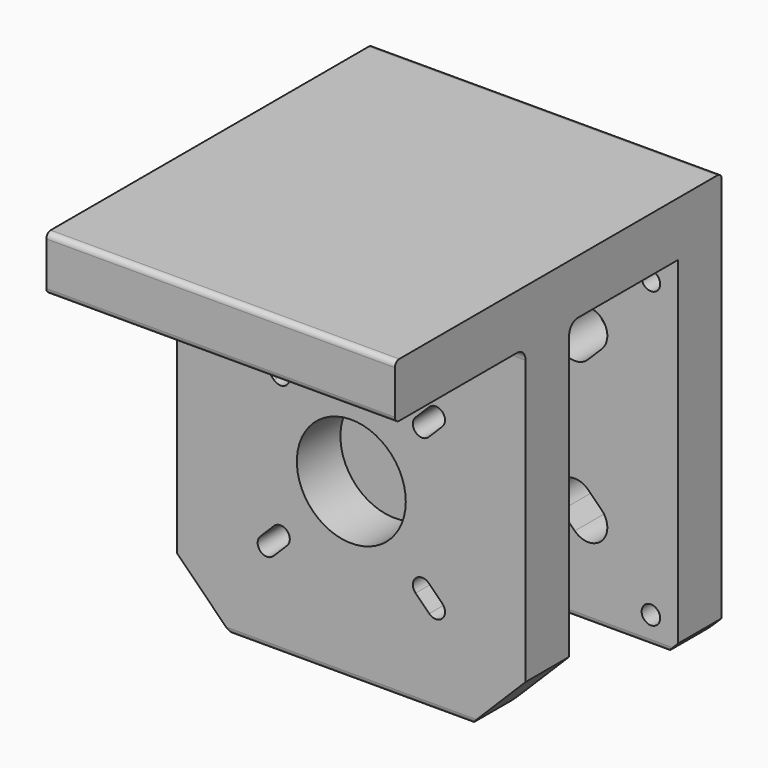
from build123d import *

# Parameters (mm, degrees)
SKETCH_W        = 64
SKETCH_H        = 64
SKETCH_R        = 10
SKETCH_R_2      = 1.7
PAD_DEPTH       = 10
SKETCH001_W     = 64
SKETCH001_H     = 35
PAD001_DEPTH    = 10
SKETCH002_W     = 64
SKETCH002_H     = 74
SKETCH002_R     = 10
PAD002_DEPTH    = 10
SKETCH003_W     = 64
SKETCH003_H     = 10
PAD003_DEPTH    = 30
CHAMFER_SIZE    = 2
CHAMFER001_SIZE = 10
FILLET_R        = 2
FILLET001_R     = 1


with BuildPart() as part:
    # Sketch → Pad (new body)
    with BuildSketch(Plane.XZ):
        Rectangle(SKETCH_W, SKETCH_H)
        Circle(SKETCH_R, mode=Mode.SUBTRACT)
        with Locations((27, 27)):
            Circle(SKETCH_R_2, mode=Mode.SUBTRACT)
        with Locations((-27, -27)):
            Circle(SKETCH_R_2, mode=Mode.SUBTRACT)
        with Locations((-27, 27)):
            Circle(SKETCH_R_2, mode=Mode.SUBTRACT)
        with Locations((27, -27)):
            Circle(SKETCH_R_2, mode=Mode.SUBTRACT)
        with BuildLine():
            ThreePointArc((10.525126, 15.474874), (10.525126, 10.525126), (15.474874, 10.525126))
            Line((17.974874, 13.025126), (15.474874, 10.525126))
            ThreePointArc((17.974874, 13.025126), (17.974874, 17.974874), (13.025126, 17.974874))
            Line((13.025126, 17.974874), (10.525126, 15.474874))
        make_face(mode=Mode.SUBTRACT)
        with BuildLine():
            ThreePointArc((-13.025126, 17.974874), (-17.974874, 17.974874), (-17.974874, 13.025126))
            Line((-15.474874, 10.525126), (-17.974874, 13.025126))
            ThreePointArc((-15.474874, 10.525126), (-10.525126, 10.525126), (-10.525126, 15.474874))
            Line((-10.525126, 15.474874), (-13.025126, 17.974874))
        make_face(mode=Mode.SUBTRACT)
        with BuildLine():
            ThreePointArc((13.025126, -17.974874), (17.974874, -17.974874), (17.974874, -13.025126))
            Line((15.474874, -10.525126), (17.974874, -13.025126))
            ThreePointArc((15.474874, -10.525126), (10.525126, -10.525126), (10.525126, -15.474874))
            Line((10.525126, -15.474874), (13.025126, -17.974874))
        make_face(mode=Mode.SUBTRACT)
        with BuildLine():
            ThreePointArc((-17.974874, -13.025126), (-17.974874, -17.974874), (-13.025126, -17.974874))
            Line((-10.525126, -15.474874), (-13.025126, -17.974874))
            ThreePointArc((-10.525126, -15.474874), (-10.525126, -10.525126), (-15.474874, -10.525126))
            Line((-15.474874, -10.525126), (-17.974874, -13.025126))
        make_face(mode=Mode.SUBTRACT)
    extrude(amount=PAD_DEPTH)

    # Sketch001 (on Face3 of Pad) → Pad001 (join)
    with BuildSketch(Plane(origin=(0, 0, 32), x_dir=(-1, 0, 0), z_dir=(0, 0, 1))):
        with Locations((0, 17.5)):
            Rectangle(SKETCH001_W, SKETCH001_H)
    extrude(amount=PAD001_DEPTH)

    # Sketch002 (on Face31 of Pad001) → Pad002 (join)
    with BuildSketch(Plane.XZ.offset(35)):
        with Locations((0, 5)):
            Rectangle(SKETCH002_W, SKETCH002_H)
        Circle(SKETCH002_R, mode=Mode.SUBTRACT)
        with BuildLine():
            ThreePointArc((11.797918, 14.202082), (11.797918, 11.797918), (14.202082, 11.797918))
            Line((16.702082, 14.297918), (14.202082, 11.797918))
            ThreePointArc((16.702082, 14.297918), (16.702082, 16.702082), (14.297918, 16.702082))
            Line((14.297918, 16.702082), (11.797918, 14.202082))
        make_face(mode=Mode.SUBTRACT)
        with BuildLine():
            ThreePointArc((14.297918, -16.702082), (16.702082, -16.702082), (16.702082, -14.297918))
            Line((14.202082, -11.797918), (16.702082, -14.297918))
            ThreePointArc((14.202082, -11.797918), (11.797918, -11.797918), (11.797918, -14.202082))
            Line((11.797918, -14.202082), (14.297918, -16.702082))
        make_face(mode=Mode.SUBTRACT)
        with BuildLine():
            ThreePointArc((-14.297918, 16.702082), (-16.702082, 16.702082), (-16.702082, 14.297918))
            Line((-14.202082, 11.797918), (-16.702082, 14.297918))
            ThreePointArc((-14.202082, 11.797918), (-11.797918, 11.797918), (-11.797918, 14.202082))
            Line((-11.797918, 14.202082), (-14.297918, 16.702082))
        make_face(mode=Mode.SUBTRACT)
        with BuildLine():
            ThreePointArc((-16.702082, -14.297918), (-16.702082, -16.702082), (-14.297918, -16.702082))
            Line((-11.797918, -14.202082), (-14.297918, -16.702082))
            ThreePointArc((-11.797918, -14.202082), (-11.797918, -11.797918), (-14.202082, -11.797918))
            Line((-14.202082, -11.797918), (-16.702082, -14.297918))
        make_face(mode=Mode.SUBTRACT)
    extrude(amount=PAD002_DEPTH)

    # Sketch003 (on Face37 of Pad002) → Pad003 (join)
    with BuildSketch(Plane.XZ.offset(45)):
        with Locations((0, 37)):
            Rectangle(SKETCH003_W, SKETCH003_H)
    extrude(amount=PAD003_DEPTH)

    # Chamfer
    chamfer_edges = [part.edges().sort_by_distance(p)[0] for p in [
        (32, -5, -32),
        (-32, -5, -32),
    ]]
    chamfer(chamfer_edges, length=CHAMFER_SIZE)

    # Chamfer001
    chamfer001_edges = [part.edges().sort_by_distance(p)[0] for p in [
        (-32, -40, -32),
        (32, -40, -32),
    ]]
    chamfer(chamfer001_edges, length=CHAMFER001_SIZE)

    # Fillet
    fillet_edges = [part.edges().sort_by_distance(p)[0] for p in [
        (0, -35, 32),
        (0, -45, 32),
    ]]
    fillet(fillet_edges, radius=FILLET_R)

    # Fillet001
    fillet001_edges = [part.edges().sort_by_distance(p)[0] for p in [
        (0, -75, 42),
        (0, -75, 32),
        (0, 0, 42),
        (0, -35, -32),
        (0, 0, -32),
        (0, -45, -32),
        (0, -10, -32),
    ]]
    fillet(fillet001_edges, radius=FILLET001_R)


solid = part.part
